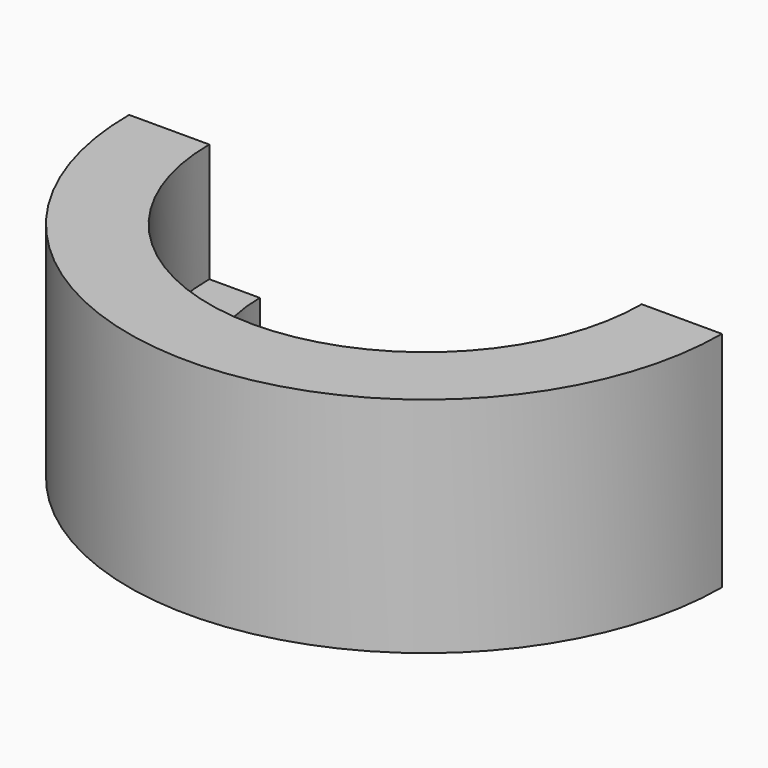
from build123d import *

# Parameters (mm, degrees)
F1_DEPTH = 3
F3_DEPTH = 3.4


with BuildPart() as f1:
    # F0 (on Top) → F1 (new body)
    with BuildSketch(Plane.XY):
        with BuildLine():
            ThreePointArc((4.75, 0), (0, -4.75), (-4.75, 0))
            Line((-4.75, 0), (-8.5, 0))
            ThreePointArc((-8.5, 0), (0, -8.5), (8.5, 0))
            Line((8.5, 0), (4.75, 0))
        make_face()
    extrude(amount=F1_DEPTH)

    # F2 (on face) → F3 (join)
    with BuildSketch(Plane.XY.offset(3)):
        with BuildLine():
            Line((-6.2, 0), (-8.5, 0))
            ThreePointArc((-8.5, 0), (0, -8.5), (8.5, 0))
            Line((8.5, 0), (6.2, 0))
            ThreePointArc((6.2, 0), (0, -6.2), (-6.2, 0))
        make_face()
    extrude(amount=F3_DEPTH)


solid = f1.part
